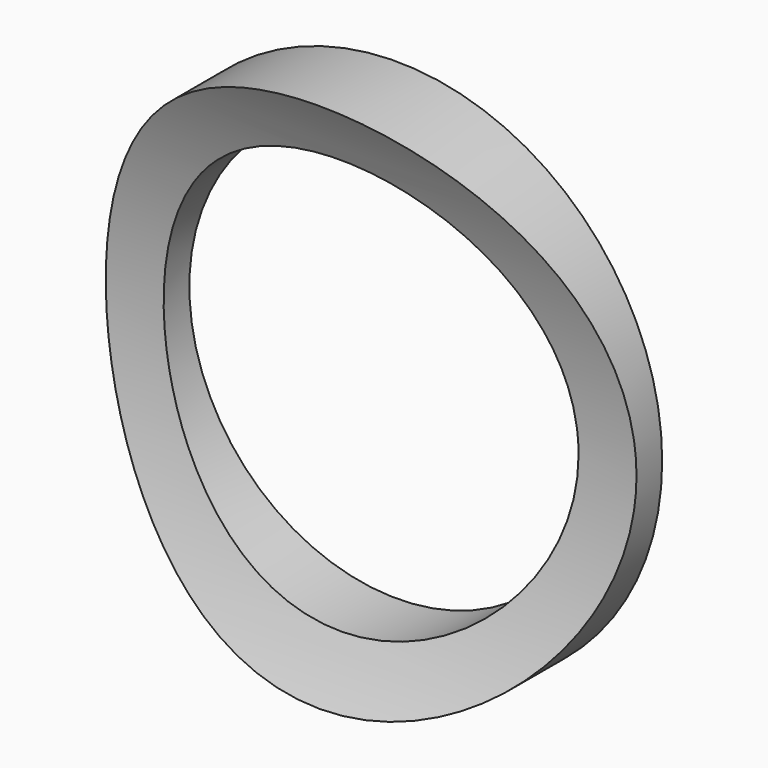
from build123d import *

# Parameters (mm, degrees)
F0_R          = 17.4625
F0_R_2        = 13.6525
F1_DEPTH      = 6.35
F3_DEPTH      = 17.4635
F3_DEPTH_BACK = 17.4635


with BuildPart() as f1:
    # F0 (on Front) → F1 (new body)
    with BuildSketch(Plane.XZ):
        Circle(F0_R)
        Circle(F0_R_2, mode=Mode.SUBTRACT)
    extrude(amount=F1_DEPTH)

    # F2 (on Right) → F3 (cut, two sides)
    with BuildSketch(Plane.YZ) as f3_sk:
        with BuildLine():
            Line((-6.35, 17.4625), (-6.35, -17.4625))
            ThreePointArc((-6.35, -17.4625), (-2.1125322997, 0), (-6.35, 17.4625))
        make_face()
    extrude(amount=-F3_DEPTH, mode=Mode.SUBTRACT)
    extrude(f3_sk.sketch, amount=F3_DEPTH_BACK, mode=Mode.SUBTRACT)


solid = f1.part
